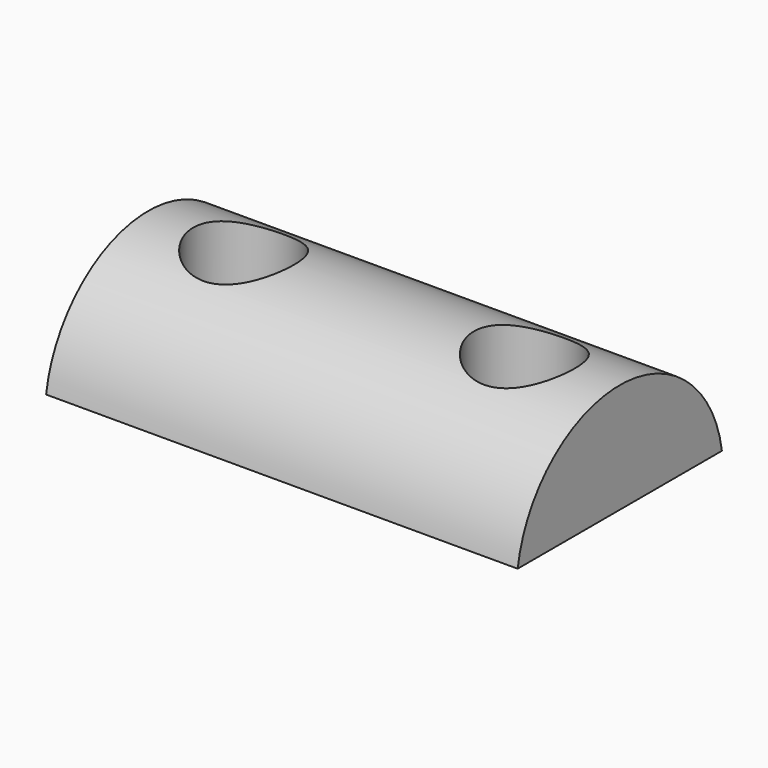
from build123d import *

# Parameters (mm, degrees)
F0_R     = 6.35
F1_DEPTH = 23.1902
F3_DEPTH = 23.1912
F5_R     = 2.4765
F6_DEPTH = 3.81
F7_R     = 1.5875
F8_DEPTH = 1.5885001


with BuildPart() as f1:
    # F0 (on Right) → F1 (new body)
    with BuildSketch(Plane.YZ):
        Circle(F0_R)
    extrude(amount=F1_DEPTH)

    # F2 (on face) → F3 (cut, through all)
    with BuildSketch(Plane.YZ.offset(23.1902)):
        with BuildLine():
            Line((6.2781560788, 0.9525), (-6.2781560788, 0.9525))
            ThreePointArc((-6.2781560788, 0.9525), (0, -6.35), (6.2781560788, 0.9525))
        make_face()
    extrude(amount=-F3_DEPTH, mode=Mode.SUBTRACT)

    # F5 (on offset) → F6 (cut)
    with BuildSketch(Plane(origin=(0, 0, 6.35), x_dir=(1, 0, 0), z_dir=(0, 0, -1))):
        with Locations((4.69265, 0)):
            Circle(F5_R)
        with Locations((18.49755, 0)):
            Circle(F5_R)
    extrude(amount=F6_DEPTH, mode=Mode.SUBTRACT)

    # F7 (on face) → F8 (cut, through all)
    with BuildSketch(Plane.XY.offset(2.54)):
        with Locations((4.69265, 0)):
            Circle(F7_R)
        with Locations((18.49755, 0)):
            Circle(F7_R)
    extrude(amount=-F8_DEPTH, mode=Mode.SUBTRACT)


solid = f1.part
